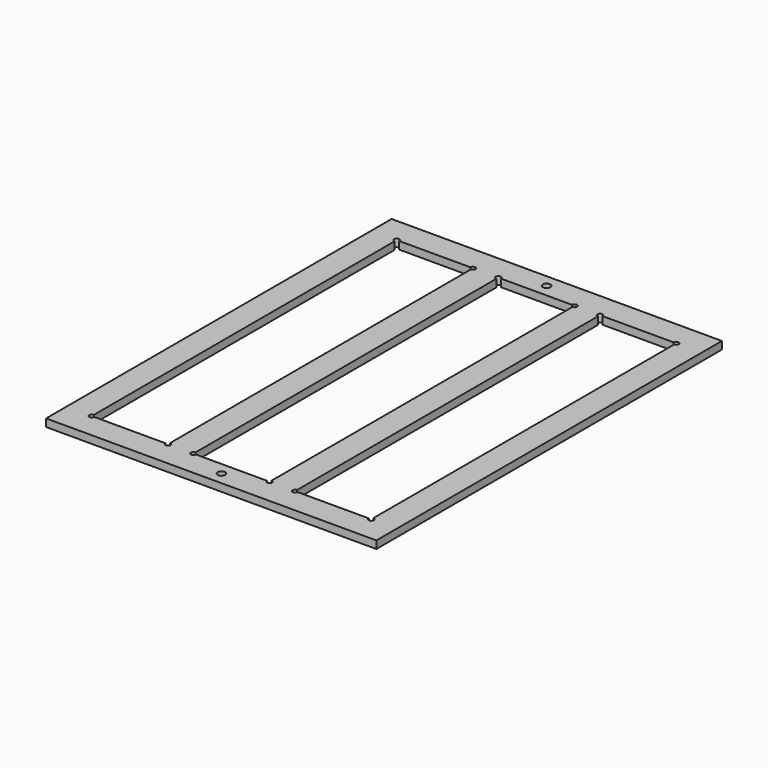
from build123d import *

# Parameters (mm, degrees)
F0_W     = 130
F0_H     = 170
F0_R     = 1.5
F1_DEPTH = 3


with BuildPart() as f1:
    # F0 (on Top) → F1 (new body)
    with BuildSketch(Plane.XY):
        Rectangle(F0_W, F0_H)
        with Locations((0, -80)):
            Circle(F0_R, mode=Mode.SUBTRACT)
        with BuildLine():
            ThreePointArc((-55, 74), (-55.707107, 75.707107), (-54, 75))
            Line((-54, 75), (-26, 75))
            ThreePointArc((-26, 75), (-25, 76), (-24, 75))
            ThreePointArc((-24, 75), (-24.292893, 74.292893), (-25, 74))
            Line((-25, 74), (-25, -74))
            ThreePointArc((-25, -74), (-24.292893, -74.292893), (-24, -75))
            ThreePointArc((-24, -75), (-25, -76), (-26, -75))
            Line((-26, -75), (-54, -75))
            ThreePointArc((-54, -75), (-55.707107, -75.707107), (-55, -74))
            Line((-55, -74), (-55, 74))
        make_face(mode=Mode.SUBTRACT)
        with BuildLine():
            ThreePointArc((-15, 74), (-15.707107, 75.707107), (-14, 75))
            Line((-14, 75), (14, 75))
            ThreePointArc((14, 75), (15, 76), (16, 75))
            ThreePointArc((16, 75), (15.707107, 74.292893), (15, 74))
            Line((15, 74), (15, -74))
            ThreePointArc((15, -74), (15.707107, -74.292893), (16, -75))
            ThreePointArc((16, -75), (15, -76), (14, -75))
            Line((14, -75), (-14, -75))
            ThreePointArc((-14, -75), (-15.707107, -75.707107), (-15, -74))
            Line((-15, -74), (-15, 74))
        make_face(mode=Mode.SUBTRACT)
        with BuildLine():
            ThreePointArc((25, 74), (24.292893, 75.707107), (26, 75))
            Line((26, 75), (54, 75))
            ThreePointArc((54, 75), (55, 76), (56, 75))
            ThreePointArc((56, 75), (55.707107, 74.292893), (55, 74))
            Line((55, 74), (55, -74))
            ThreePointArc((55, -74), (55.707107, -74.292893), (56, -75))
            ThreePointArc((56, -75), (55, -76), (54, -75))
            Line((54, -75), (26, -75))
            ThreePointArc((26, -75), (24.292893, -75.707107), (25, -74))
            Line((25, -74), (25, 74))
        make_face(mode=Mode.SUBTRACT)
        with Locations((0, 80)):
            Circle(F0_R, mode=Mode.SUBTRACT)
        Rectangle(F0_W, F0_H)
        with Locations((0, -80)):
            Circle(F0_R, mode=Mode.SUBTRACT)
        with BuildLine():
            ThreePointArc((-55, 74), (-55.707107, 75.707107), (-54, 75))
            Line((-54, 75), (-26, 75))
            ThreePointArc((-26, 75), (-25, 76), (-24, 75))
            ThreePointArc((-24, 75), (-24.292893, 74.292893), (-25, 74))
            Line((-25, 74), (-25, -74))
            ThreePointArc((-25, -74), (-24.292893, -74.292893), (-24, -75))
            ThreePointArc((-24, -75), (-25, -76), (-26, -75))
            Line((-26, -75), (-54, -75))
            ThreePointArc((-54, -75), (-55.707107, -75.707107), (-55, -74))
            Line((-55, -74), (-55, 74))
        make_face(mode=Mode.SUBTRACT)
        with BuildLine():
            ThreePointArc((-15, 74), (-15.707107, 75.707107), (-14, 75))
            Line((-14, 75), (14, 75))
            ThreePointArc((14, 75), (15, 76), (16, 75))
            ThreePointArc((16, 75), (15.707107, 74.292893), (15, 74))
            Line((15, 74), (15, -74))
            ThreePointArc((15, -74), (15.707107, -74.292893), (16, -75))
            ThreePointArc((16, -75), (15, -76), (14, -75))
            Line((14, -75), (-14, -75))
            ThreePointArc((-14, -75), (-15.707107, -75.707107), (-15, -74))
            Line((-15, -74), (-15, 74))
        make_face(mode=Mode.SUBTRACT)
        with BuildLine():
            ThreePointArc((25, 74), (24.292893, 75.707107), (26, 75))
            Line((26, 75), (54, 75))
            ThreePointArc((54, 75), (55, 76), (56, 75))
            ThreePointArc((56, 75), (55.707107, 74.292893), (55, 74))
            Line((55, 74), (55, -74))
            ThreePointArc((55, -74), (55.707107, -74.292893), (56, -75))
            ThreePointArc((56, -75), (55, -76), (54, -75))
            Line((54, -75), (26, -75))
            ThreePointArc((26, -75), (24.292893, -75.707107), (25, -74))
            Line((25, -74), (25, 74))
        make_face(mode=Mode.SUBTRACT)
        with Locations((0, 80)):
            Circle(F0_R, mode=Mode.SUBTRACT)
    extrude(amount=F1_DEPTH)


solid = f1.part
